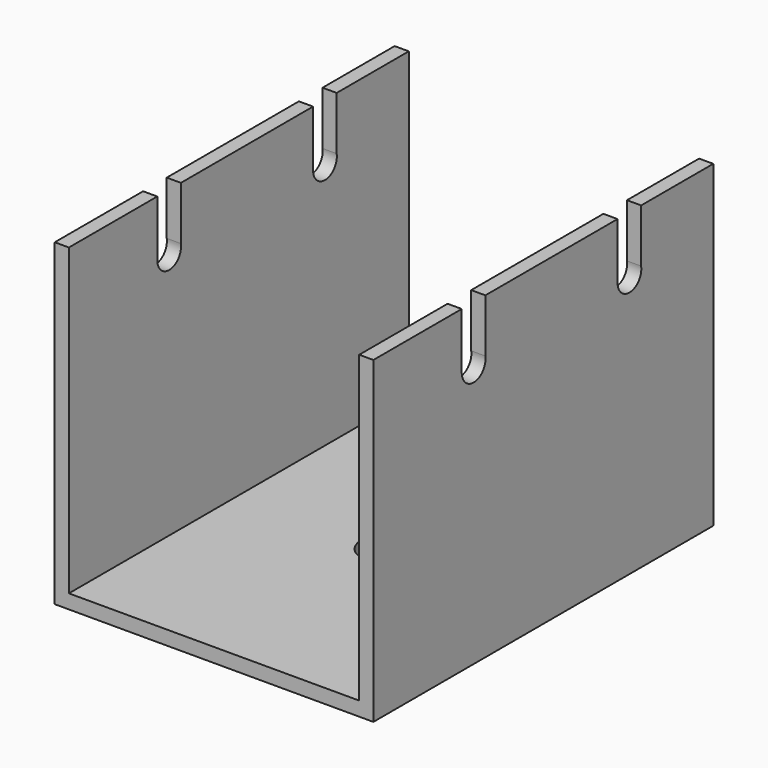
from build123d import *

# Parameters (mm, degrees)
BOX003_W             = 2
BOX003_H             = 4.17
BOX003_DEPTH         = 13
ARRAY001_X_COUNT     = 2
ARRAY001_X_PITCH     = 43
ARRAY001_Y_COUNT     = 2
ARRAY001_Y_PITCH     = 27.5
CYLINDER_R           = 2.1
CYLINDER_DEPTH       = 2
CYLINDER_PITCH_ANGLE = 90
ARRAY_X_COUNT        = 2
ARRAY_X_PITCH        = 43
ARRAY_Y_COUNT        = 2
ARRAY_Y_PITCH        = 27.5
CYLINDER001_R        = 3.25
CYLINDER001_DEPTH    = 2
BOX004_W             = 6.5
BOX004_H             = 36
BOX004_DEPTH         = 2
BOX_W                = 45
BOX_H                = 60
BOX_DEPTH            = 2
BOX002_W             = 2
BOX002_H             = 60
BOX002_DEPTH         = 45
BOX001_W             = 2
BOX001_H             = 60
BOX001_DEPTH         = 45


with BuildPart() as array001:
    # Box003 → Box003 (new body)
    with BuildSketch(Plane(origin=(0, 15.6, 37), x_dir=(1, 0, 0), z_dir=(0, 0, 1))):
        with Locations((1, 2.085)):
            Rectangle(BOX003_W, BOX003_H)
    extrude(amount=BOX003_DEPTH)

    # Array001 X: Array001 ×2


with BuildPart() as array001_1:
    add(array001.part)
    with Locations(*[(i * ARRAY001_X_PITCH, 0, 0) for i in range(1, ARRAY001_X_COUNT)]):
        add(array001.part)

    # Array001 Y: Array001 ×2


with BuildPart() as array001_2:
    add(array001_1.part)
    with Locations(*[(0, i * ARRAY001_Y_PITCH, 0) for i in range(1, ARRAY001_Y_COUNT)]):
        add(array001_1.part)


with BuildPart() as fusion002:
    # Cylinder → Cylinder (new body)
    with BuildSketch(Plane.XY):
        Circle(CYLINDER_R)
    extrude(amount=CYLINDER_DEPTH)


with BuildPart() as fusion002_1:
    # Cylinder pitch: moved
    add(fusion002.part.rotate(Axis((0, 0, 0), (0, 1, 0)), CYLINDER_PITCH_ANGLE))


with BuildPart() as fusion002_2:
    # Cylinder placement: moved
    add(fusion002_1.part.moved(Location((0, 17.7, 37.1))))

    # Array X: Fusion002 ×2


with BuildPart() as fusion002_3:
    add(fusion002_2.part)
    with Locations(*[(i * ARRAY_X_PITCH, 0, 0) for i in range(1, ARRAY_X_COUNT)]):
        add(fusion002_2.part)

    # Array Y: Fusion002 ×2


with BuildPart() as fusion002_4:
    add(fusion002_3.part)
    with Locations(*[(0, i * ARRAY_Y_PITCH, 0) for i in range(1, ARRAY_Y_COUNT)]):
        add(fusion002_3.part)

    # Fusion002: union Array001
    add(array001_2.part)


with BuildPart() as cilindro001:
    # Cylinder001 → Cylinder001 (new body)
    with BuildSketch(Plane(origin=(22.5, 30, 0), x_dir=(1, 0, 0), z_dir=(0, 0, 1))):
        Circle(CYLINDER001_R)
    extrude(amount=CYLINDER001_DEPTH)


with BuildPart() as fusion003:
    # Box004 → Box004 (new body)
    with BuildSketch(Plane(origin=(19.25, 30, 0), x_dir=(1, 0, 0), z_dir=(0, 0, 1))):
        with Locations((3.25, 18)):
            Rectangle(BOX004_W, BOX004_H)
    extrude(amount=BOX004_DEPTH)

    # Fusion001: union Cilindro001
    add(cilindro001.part)

    # Fusion003: union Fusion002
    add(fusion002_4.part)


with BuildPart() as pared_inferior:
    # Box → Box (new body)
    with BuildSketch(Plane.XY):
        with Locations((22.5, 30)):
            Rectangle(BOX_W, BOX_H)
    extrude(amount=BOX_DEPTH)


with BuildPart() as pared_izquierda:
    # Box002 → Box002 (new body)
    with BuildSketch(Plane(origin=(43, 0, 0), x_dir=(1, 0, 0), z_dir=(0, 0, 1))):
        with Locations((1, 30)):
            Rectangle(BOX002_W, BOX002_H)
    extrude(amount=BOX002_DEPTH)


with BuildPart() as cut:
    # Box001 → Box001 (new body)
    with BuildSketch(Plane.XY):
        with Locations((1, 30)):
            Rectangle(BOX001_W, BOX001_H)
    extrude(amount=BOX001_DEPTH)

    # Fusion: union pared inferior, pared izquierda
    add(pared_inferior.part)
    add(pared_izquierda.part)

    # Cut: cut Fusion003
    add(fusion003.part, mode=Mode.SUBTRACT)


solid = cut.part
